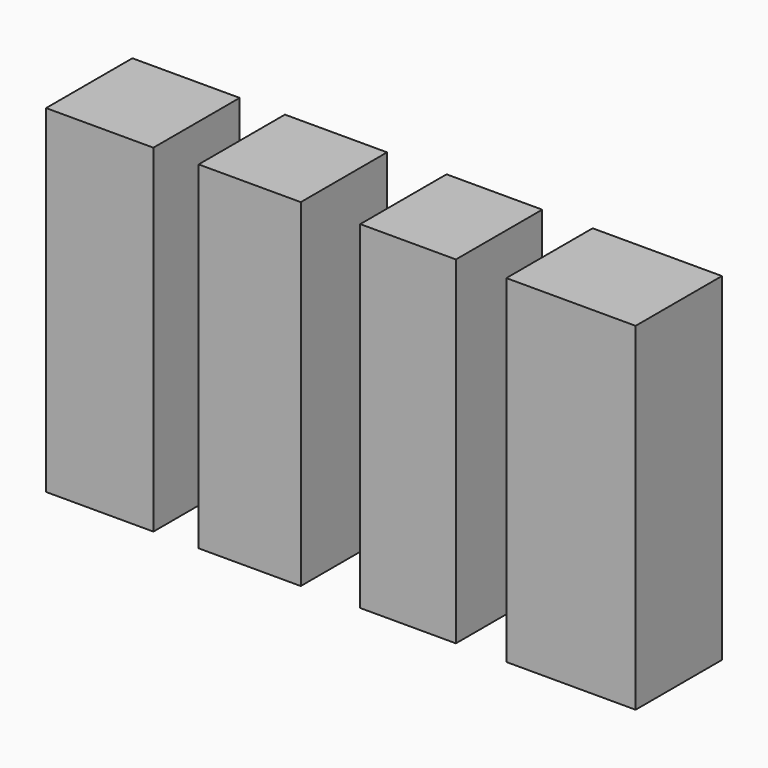
from build123d import *

# Parameters (mm, degrees)
F0_W     = 24.19246
F0_H     = 24.320304
F0_W_2   = 23.026559
F0_W_3   = 21.569181
F0_W_4   = 29.147547
F1_DEPTH = 76.2


with BuildPart() as f1:
    # F0 (on Top) → F1 (new body)
    with BuildSketch(Plane.XY):
        with Locations((-58.732297, 53.174898)):
            Rectangle(F0_W, F0_H)
        with Locations((-24.921148, 53.174898)):
            Rectangle(F0_W_2, F0_H)
        with Locations((10.784591, 53.174898)):
            Rectangle(F0_W_3, F0_H)
        with Locations((47.510492, 53.174898)):
            Rectangle(F0_W_4, F0_H)
    extrude(amount=F1_DEPTH)


solid = f1.part
